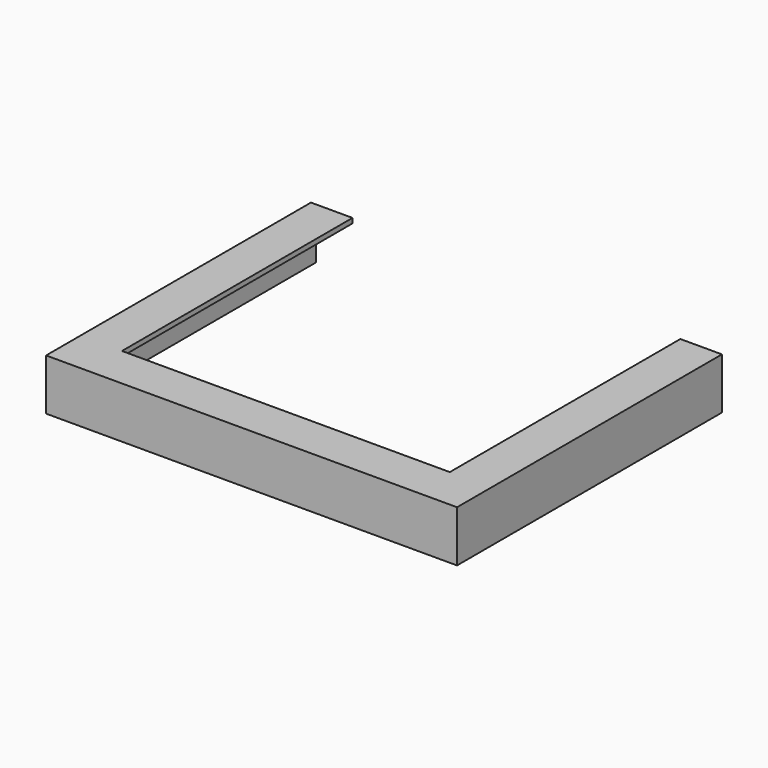
from build123d import *

# Parameters (mm, degrees)
F2_DEPTH = 14.2875
F4_DEPTH = 1.5
F5_W     = 101.0000000008
F5_H     = 0.5
F6_DEPTH = 11.5


with BuildPart() as f2:
    # F1 (on Top) → F2 (new body)
    with BuildSketch(Plane.XY):
        Polygon((-62.1652165414, -49.7248080077), (64.4347834586, -49.7248080077), (64.4347834586, 52.2751919923), (62.9347834586, 52.2751919923), (62.9347834586, -48.2248080077), (-60.6652165414, -48.2248080077), (-60.6652165414, 52.2751919923), (-62.165216208, 52.2761919923), align=None)
    extrude(amount=-F2_DEPTH)

    # F3 (on face) → F4 (join)
    with BuildSketch(Plane.XY):
        Polygon((-62.1652165414, -36.51), (-62.1652165414, -49.7248080077), (-49.3652165414, -49.7248080077), (51.6347834586, -49.7248080077), (64.4347834586, -49.7248080077), (64.4347834586, -36.51), (64.4347834586, 52.2751919923), (51.6347834586, 52.2751919923), (51.6347834586, -36.51), (-49.3652165414, -36.51), (-49.3652165414, 52.2751919923), (-62.1652165414, 52.2751919923), align=None)
    extrude(amount=F4_DEPTH)

    # F5 (on face) → F6 (cut)
    with BuildSketch(Plane(origin=(0, -36.51, 0), x_dir=(-1, 0, 0), z_dir=(0, 1, 0))):
        with Locations((-1.134783459, 0.25)):
            Rectangle(F5_W, F5_H)
    extrude(amount=-F6_DEPTH, mode=Mode.SUBTRACT)


solid = f2.part
